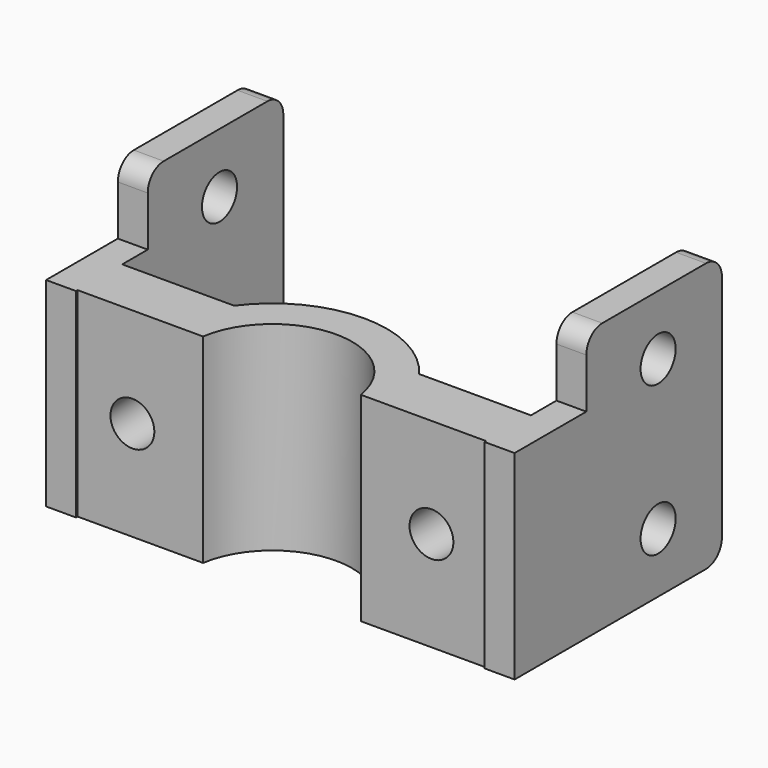
from build123d import *

# Parameters (mm, degrees)
CYLINDER103_R               = 2.2
CYLINDER103_DEPTH           = 30
CYLINDER099_R               = 2.2
CYLINDER099_DEPTH           = 100
ARRAY001_Z_COUNT            = 4
ARRAY001_Z_PITCH            = 15
BOX048_W                    = 3
BOX048_H                    = 10
BOX048_DEPTH                = 20
BOX_W                       = 3
BOX_H                       = 17
BOX_DEPTH                   = 27
ARRAY_X_COUNT               = 2
ARRAY_X_PITCH               = 44
CYLINDER097_R               = 8
CYLINDER097_DEPTH           = 20
CYLINDER097_PLACEMENT_ANGLE = 10
BOX047_W                    = 47
BOX047_H                    = 5.6
BOX047_DEPTH                = 20
CYLINDER096_W               = 11.5
CYLINDER096_H               = 20
CYLINDER096_ANGLE           = 160
CYLINDER096_PLACEMENT_ANGLE = 10
FILLET_R                    = 2


with BuildPart() as insert_hole:
    # Cylinder103 → Cylinder103 (new body)
    with BuildSketch(Plane(origin=(15, -19, 10), x_dir=(1, 0, 0), z_dir=(0, 1, 0))):
        Circle(CYLINDER103_R)
    extrude(amount=CYLINDER103_DEPTH)


with BuildPart() as m3_bolt_insert_fusion001:
    # Part__Mirroring007: instance of insert hole
    add(insert_hole.part.mirror(Plane(origin=(0, 0, 0), x_dir=(0, -1, 0), z_dir=(1, 0, 0))))

    # Fusion076: union insert hole
    add(insert_hole.part)


with BuildPart() as m4_hole_array:
    # Cylinder099 → Cylinder099 (new body)
    with BuildSketch(Plane(origin=(-50, 9, 6), x_dir=(0, 0, -1), z_dir=(1, 0, 0))):
        Circle(CYLINDER099_R)
    extrude(amount=CYLINDER099_DEPTH)

    # Array001 Z: m4 hole array ×4


with BuildPart() as m4_hole_array_1:
    add(m4_hole_array.part)
    with Locations(*[(0, 0, i * ARRAY001_Z_PITCH) for i in range(1, ARRAY001_Z_COUNT)]):
        add(m4_hole_array.part)


with BuildPart() as wall_cube001:
    # Box048 → Box048 (new body)
    with BuildSketch(Plane(origin=(0, -9, 0), x_dir=(1, 0, 0), z_dir=(0, 0, 1))):
        with Locations((1.5, 5)):
            Rectangle(BOX048_W, BOX048_H)
    extrude(amount=BOX048_DEPTH)


with BuildPart() as walls_with_holes:
    # Box → Box (new body)
    with BuildSketch(Plane.XY):
        with Locations((1.5, 8.5)):
            Rectangle(BOX_W, BOX_H)
    extrude(amount=BOX_DEPTH)

    # Fusion: union wall cube001
    add(wall_cube001.part)


with BuildPart() as walls_with_holes_1:
    # Fusion placement: moved
    add(walls_with_holes.part.moved(Location((-23.5, 0, 0))))

    # Array X: walls with holes ×2


with BuildPart() as walls_with_holes_2:
    add(walls_with_holes_1.part)
    with Locations(*[(i * ARRAY_X_PITCH, 0, 0) for i in range(1, ARRAY_X_COUNT)]):
        add(walls_with_holes_1.part)

    # Cut: cut m4 hole array
    add(m4_hole_array_1.part, mode=Mode.SUBTRACT)


with BuildPart() as walls_with_holes_3:
    # Cut placement: moved
    add(walls_with_holes_2.part.moved(Location((0, 10, 0))))


with BuildPart() as pile_extraction001:
    # Cylinder097 → Cylinder097 (new body)
    with BuildSketch(Plane.XY):
        Circle(CYLINDER097_R)
    extrude(amount=CYLINDER097_DEPTH)


with BuildPart() as pile_extraction001_1:
    # Cylinder097 placement: moved
    add(pile_extraction001.part.rotate(Axis((0, 0, 0), (0, 0, 1)), CYLINDER097_PLACEMENT_ANGLE))


with BuildPart() as cube004:
    # Box047 → Box047 (new body)
    with BuildSketch(Plane(origin=(-23.5, 1.2, 0), x_dir=(1, 0, 0), z_dir=(0, 0, 1))):
        with Locations((23.5, 2.8)):
            Rectangle(BOX047_W, BOX047_H)
    extrude(amount=BOX047_DEPTH)


with BuildPart() as solder_with_walls_fillet_clone:
    # Cylinder096 → Cylinder096 (revolve)
    with BuildSketch(Plane.XZ):
        with Locations((5.75, 10)):
            Rectangle(CYLINDER096_W, CYLINDER096_H)
    revolve(axis=Axis((0, 0, 0), (0, 0, 1)), revolution_arc=CYLINDER096_ANGLE)


with BuildPart() as solder_with_walls_fillet_clone_1:
    # Cylinder096 placement: moved
    add(solder_with_walls_fillet_clone.part.rotate(Axis((0, 0, 0), (0, 0, 1)), CYLINDER096_PLACEMENT_ANGLE))

    # Fusion072: union Cube004
    add(cube004.part)

    # Cut023016: cut pile extraction001
    add(pile_extraction001_1.part, mode=Mode.SUBTRACT)

    # Fusion073: union walls with holes
    add(walls_with_holes_3.part)

    # Cut023015: cut m3 bolt insert fusion001
    add(m3_bolt_insert_fusion001.part, mode=Mode.SUBTRACT)


with BuildPart() as solder_with_walls_fillet_clone_2:
    # Cut023015 placement: moved
    add(solder_with_walls_fillet_clone_1.part.moved(Location((0, -11, 0))))

    # Fillet
    fillet_edges = [solder_with_walls_fillet_clone_2.edges().sort_by_distance(p)[0] for p in [
        (-22, -1, 27),
        (-22, 16, 27),
        (-22, 16, 0),
        (22, -1, 27),
        (22, 16, 27),
        (22, 16, 0),
    ]]
    fillet(fillet_edges, radius=FILLET_R)


with BuildPart() as solder_with_walls_fillet_clone_3:
    # Body placement: moved
    add(solder_with_walls_fillet_clone_2.part.moved(Location((0, 0, 75))))


solid = solder_with_walls_fillet_clone_3.part
